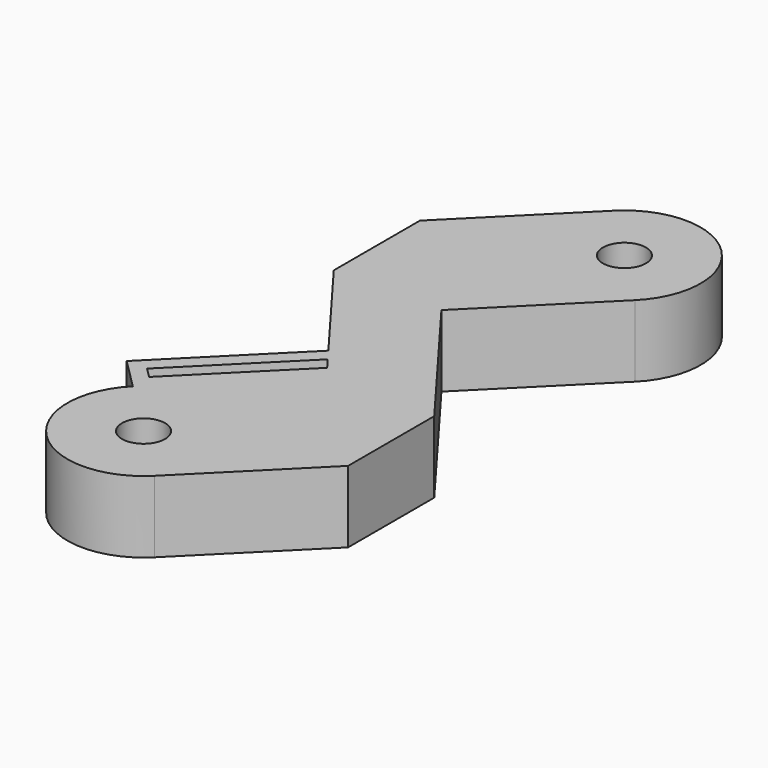
from build123d import *

# Parameters (mm, degrees)
F0_R     = 1.5
F1_DEPTH = 5
F3_DEPTH = 5


with BuildPart() as f1:
    # F0 (on Top) → F1 (new body)
    with BuildSketch(Plane.XY):
        with BuildLine():
            Line((0, -20), (7.5, -12.5))
            Line((7.5, -12.5), (7.5, -5))
            Line((7.5, -5), (0, 5))
            Line((0, 5), (7.5, 12.5))
            ThreePointArc((7.5, 12.5), (7.5, 20), (0, 20))
            Line((0, 20), (-7.5, 12.5))
            Line((-7.5, 12.5), (-7.5, 5))
            Line((-7.5, 5), (0, -5))
            Line((0, -5), (-7.5, -12.5))
            ThreePointArc((-7.5, -12.5), (-7.5, -20), (0, -20))
        make_face()
        with Locations((-3.75, -16.25)):
            Circle(F0_R, mode=Mode.SUBTRACT)
        with Locations((3.75, 16.25)):
            Circle(F0_R, mode=Mode.SUBTRACT)
    extrude(amount=F1_DEPTH)

    # F2 (on face) → F3 (join)
    with BuildSketch(Plane(origin=(0, 0, 0), x_dir=(1, 0, 0), z_dir=(0, 0, -1))):
        Polygon((-0.6060915267, 4.1918779644), (0, 5), (-6.7928932188, 11.7928932188), (-7.5, 11.0857864376), align=None)
        Polygon((-7.5, 11.0857864376), (-6.7928932188, 11.7928932188), (-7.5, 12.5), (-8.2071067812, 11.7928932188), align=None)
        Polygon((-1.8182745802, 2.5756338931), (-1.2060915267, 3.3918779644), (-8.2, 10.3857864376), (-8.9142135624, 9.6715728753), align=None)
        Polygon((-8.9142135624, 9.6715728753), (-8.2, 10.3857864376), (-8.9071067812, 11.0928932188), (-9.6213203436, 10.3786796564), align=None)
        Polygon((-8.2, 10.3857864376), (-7.5, 11.0857864376), (-8.2071067812, 11.7928932188), (-8.9071067812, 11.0928932188), align=None)
    extrude(amount=-F3_DEPTH)


solid = f1.part
